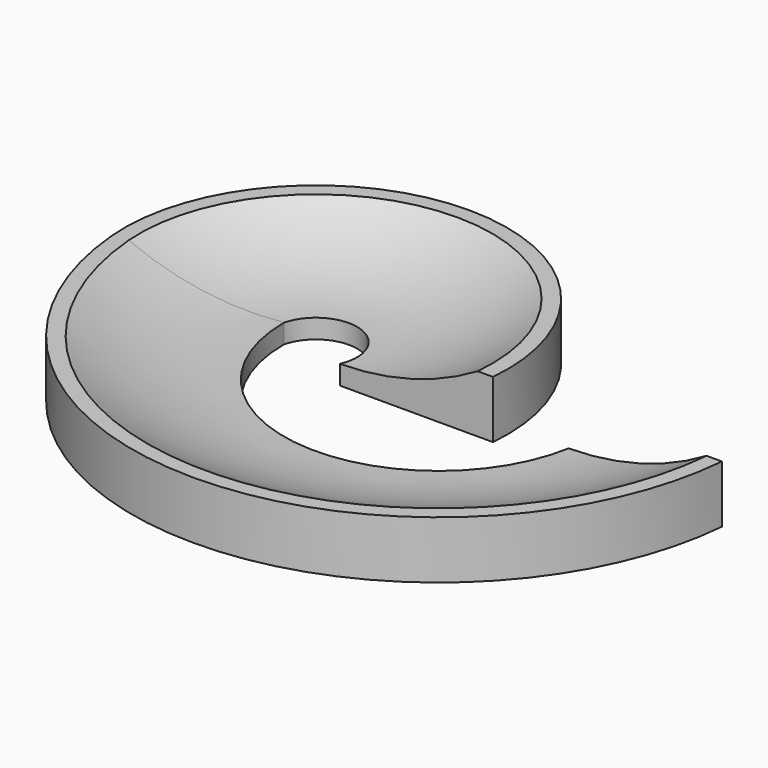
from build123d import *


with BuildPart() as f2:
    # F2: sweep along a path in F1
    with BuildLine(Plane.XY) as f2_path:
        ThreePointArc((0, 0), (-101.196559, -92.554757), (-202.393118, 0))
        ThreePointArc((-202.393118, 0), (-139.145269, 69.153277), (-75.897419, 0))
    # F0 (on Front) → F2 (sweep)
    with BuildSketch(Plane.XZ):
        with BuildLine():
            Line((-50.8, 0), (0, 0))
            Line((0, 0), (0, 19.05))
            Line((0, 19.05), (-5.08, 19.05))
            ThreePointArc((-5.08, 19.05), (-27.093978, 9.654319), (-50.8, 6.35))
            Line((-50.8, 6.35), (-50.8, 0))
        make_face()
    sweep(path=f2_path.line)


solid = f2.part
